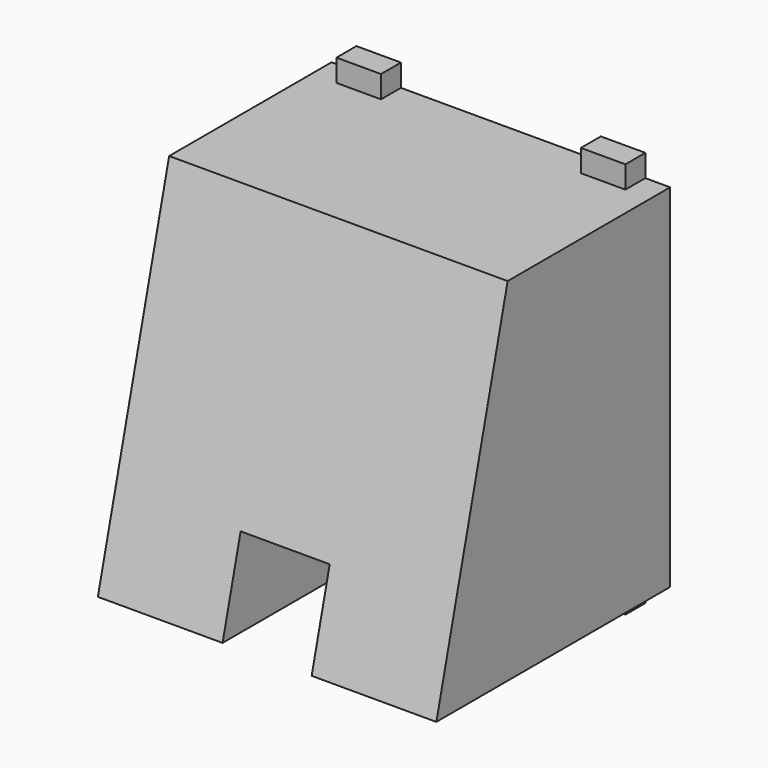
from build123d import *

# Parameters (mm, degrees)
F0_W     = 5
F0_H     = 2.5
F1_DEPTH = 2.8
F3_DEPTH = 38
F5_DEPTH = 40


with BuildPart() as f1:
    # F0 (on Front) → F1 (new body)
    with BuildSketch(Plane.XZ):
        with Locations((-13.717596, 1.25)):
            Rectangle(F0_W, F0_H)
        with Locations((13.717596, 1.25)):
            Rectangle(F0_W, F0_H)
        with Locations((-13.717596, -40.75)):
            Rectangle(F0_W, F0_H)
        with Locations((13.717596, -40.75)):
            Rectangle(F0_W, F0_H)
        Polygon((11.217596, 0), (0, 0), (-11.217596, 0), (-16.217596, 0), (-19, 0), (-19, -39.5), (-16.217596, -39.5), (-11.217596, -39.5), (0, -39.5), (11.217596, -39.5), (16.217596, -39.5), (19, -39.5), (19, 0), (16.217596, 0), align=None)
    extrude(amount=F1_DEPTH)

    # F2 (on face) → F3 (join)
    with BuildSketch(Plane(origin=(-19, 0, 0), x_dir=(0, -1, 0), z_dir=(-1, 0, 0))):
        Polygon((2.8, 0), (2.8, -39.5), (32.8, -39.5), (22.8, 0), align=None)
    extrude(amount=-F3_DEPTH)

    # F4 (on face) → F5 (cut)
    with BuildSketch(Plane.XZ):
        Polygon((-5, -29.5), (-5, -39.5), (0, -39.5), (5, -39.5), (5, -29.5), align=None)
    extrude(amount=F5_DEPTH, mode=Mode.SUBTRACT)


solid = f1.part
